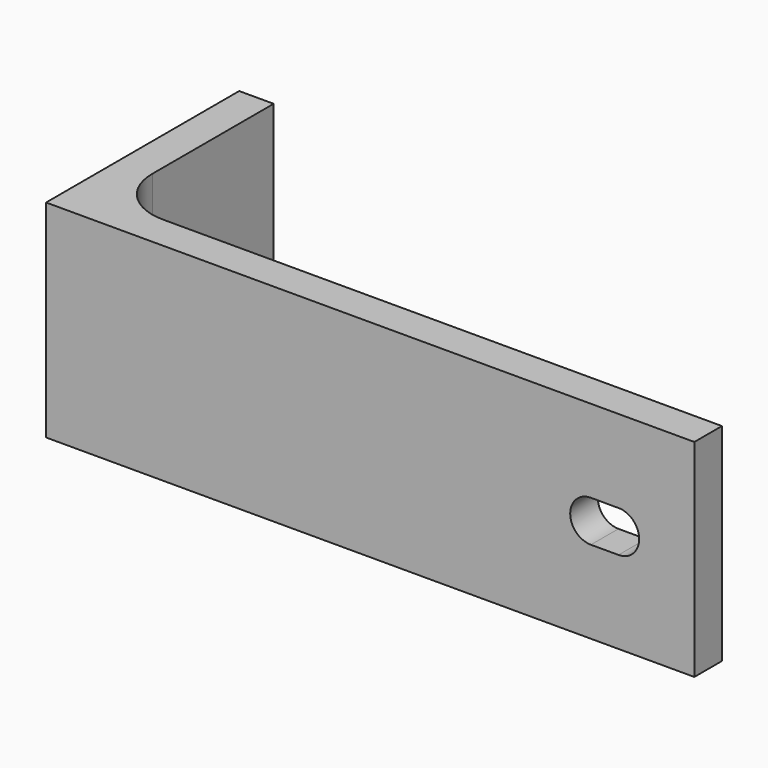
from build123d import *

# Parameters (mm, degrees)
F1_DEPTH = 15
F3_D     = 2.95
F4_R     = 4
F6_DEPTH = 25


with BuildPart() as f1:
    # F0 (on Top) → F1 (new body)
    with BuildSketch(Plane.XY):
        Polygon((44.5, 0), (0, 0), (0, 15), (-2.5, 15), (-2.5, -2.5), (44.5, -2.5), align=None)
    extrude(amount=F1_DEPTH)

    # F3 (through all)
    with Locations(Plane.YZ):
        with Locations((7.5, 7.5)):
            Hole(F3_D / 2)

    # F4
    f4_edges = [f1.edges().sort_by_distance(p)[0] for p in [
        (0, 0, 7.5),
    ]]
    fillet(f4_edges, radius=F4_R)

    # F5 (on face) → F6 (cut)
    with BuildSketch(Plane(origin=(0, 0, 0), x_dir=(-1, 0, 0), z_dir=(0, 1, 0))):
        with BuildLine():
            Line((-39, 6), (-37, 6))
            ThreePointArc((-37, 6), (-35.500001, 7.501758), (-37.003516, 8.999996))
            Line((-37.003516, 8.999996), (-38.88501, 8.995586))
            ThreePointArc((-38.88501, 8.995586), (-40.498896, 7.557537), (-39, 6))
        make_face()
    extrude(amount=-F6_DEPTH, mode=Mode.SUBTRACT)


solid = f1.part
